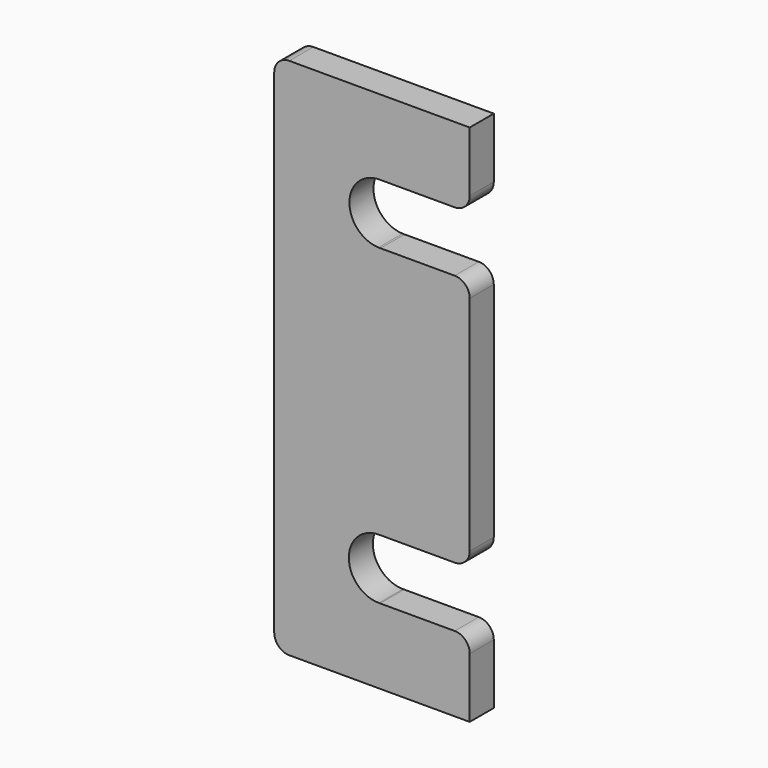
from build123d import *

# Parameters (mm, degrees)
F0_R     = 10
F1_DEPTH = 10
F3_DEPTH = 25


with BuildPart() as f1:
    # F0 (on Front) → F1 (new body)
    with BuildSketch(Plane.XZ):
        with BuildLine():
            Line((96.709934, 115.595525), (-43.290066, 115.595525))
            ThreePointArc((-43.290066, 115.595525), (-46.8256, 114.131058), (-48.290066, 110.595525))
            Line((-48.290066, 110.595525), (-48.290066, -53.404475))
            ThreePointArc((-48.290066, -53.404475), (-46.8256, -56.940009), (-43.290066, -58.404475))
            Line((-43.290066, -58.404475), (96.709934, -58.404475))
            ThreePointArc((96.709934, -58.404475), (100.245467, -56.940009), (101.709934, -53.404475))
            Line((101.709934, -53.404475), (101.709934, 110.595525))
            ThreePointArc((101.709934, 110.595525), (100.245467, 114.131058), (96.709934, 115.595525))
        make_face()
        with Locations((-13.290066, -23.404475)):
            Circle(F0_R, mode=Mode.SUBTRACT)
        with Locations((66.709934, -23.404475)):
            Circle(F0_R, mode=Mode.SUBTRACT)
        with Locations((-13.290066, 80.595525)):
            Circle(F0_R, mode=Mode.SUBTRACT)
        with Locations((66.709934, 80.595525)):
            Circle(F0_R, mode=Mode.SUBTRACT)
    extrude(amount=F1_DEPTH)

    # F2 (on face) → F3 (cut)
    with BuildSketch(Plane.XZ.offset(10)):
        with BuildLine():
            Line((128.527537, 115.595525), (16.709934, 115.595525))
            Line((16.709934, 115.595525), (16.709934, 95.595525))
            ThreePointArc((16.709934, 95.595525), (15.245467, 92.059991), (11.709934, 90.595525))
            Line((11.709934, 90.595525), (-13.290066, 90.595525))
            ThreePointArc((-13.290066, 90.595525), (-23.288771, 80.756455), (-13.611886, 70.600704))
            Line((-13.611886, 70.600704), (11.709934, 70.600704))
            ThreePointArc((11.709934, 70.600704), (15.245467, 69.136238), (16.709934, 65.600704))
            Line((16.709934, 65.600704), (16.709934, -8.404598))
            ThreePointArc((16.709934, -8.404598), (15.245467, -11.940131), (11.709934, -13.404598))
            Line((11.709934, -13.404598), (-13.339475, -13.404598))
            ThreePointArc((-13.339475, -13.404598), (-23.48642, -23.329165), (-13.48718, -33.402533))
            Line((-13.48718, -33.402533), (11.709934, -33.402533))
            ThreePointArc((11.709934, -33.402533), (15.245467, -34.866999), (16.709934, -38.402533))
            Line((16.709934, -38.402533), (16.709934, -58.404475))
            Line((16.709934, -58.404475), (128.527537, -58.404475))
            Line((128.527537, -58.404475), (128.527537, 115.595525))
        make_face()
    extrude(amount=-F3_DEPTH, mode=Mode.SUBTRACT)


solid = f1.part
